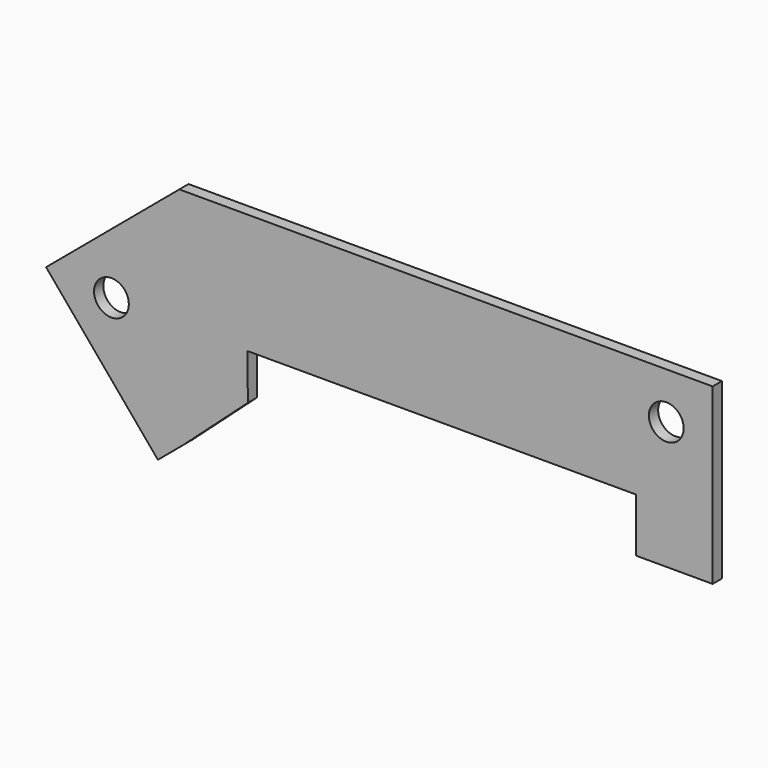
from build123d import *

# Parameters (mm, degrees)
F0_R     = 15
F1_DEPTH = 10


with BuildPart() as f1:
    # F0 (on Front) → F1 (new body)
    with BuildSketch(Plane.XZ):
        Polygon((230, -53.581859), (230, 96.418141), (-230, 96.418141), (-344.906666, 0), (-248.488525, -114.906666), (-226.454759, -96.418141), (-170.892954, -46.418141), (-171.154469, -7.162976), (163.922563, -7.162976), (163.922563, -53.581859), align=None)
        with Locations((-288.553384, -4.930273)):
            Circle(F0_R, mode=Mode.SUBTRACT)
        with Locations((190, 56.418141)):
            Circle(F0_R, mode=Mode.SUBTRACT)
        Polygon((230, -53.581859), (230, 96.418141), (-230, 96.418141), (-344.906666, 0), (-248.488525, -114.906666), (-226.454759, -96.418141), (-170.892954, -46.418141), (-171.154469, -7.162976), (163.922563, -7.162976), (163.922563, -53.581859), align=None)
        with Locations((-288.553384, -4.930273)):
            Circle(F0_R, mode=Mode.SUBTRACT)
        with Locations((190, 56.418141)):
            Circle(F0_R, mode=Mode.SUBTRACT)
    extrude(amount=F1_DEPTH)


solid = f1.part
